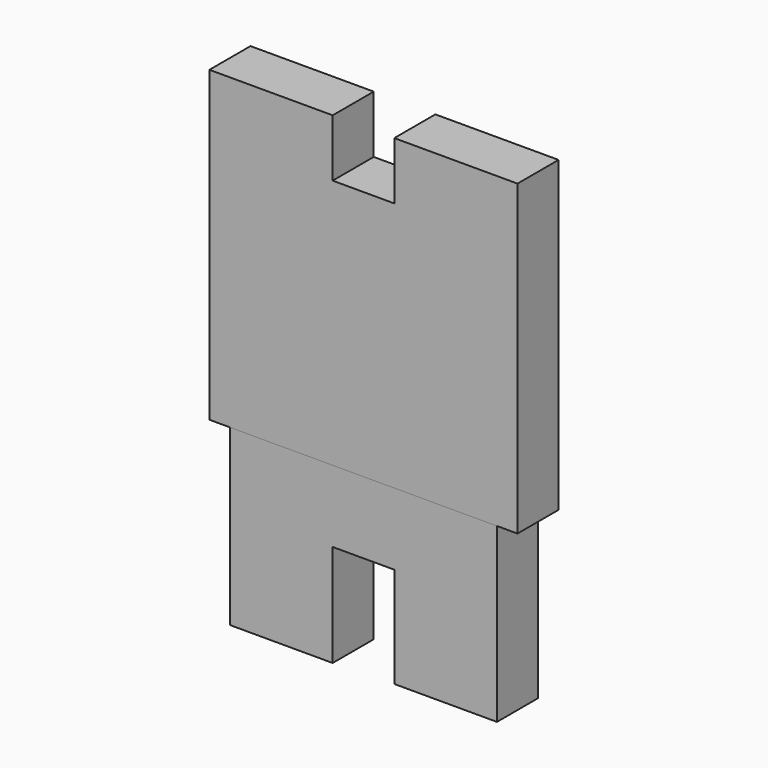
from build123d import *

# Parameters (mm, degrees)
F0_W     = 76.2
F0_H     = 76.2
F1_DEPTH = 12.7
F2_W     = 15.24
F2_H     = 14.224
F3_DEPTH = 25.4
F5_DEPTH = 12.7


with BuildPart() as f1:
    # F0 (on Front) → F1 (new body)
    with BuildSketch(Plane.XZ):
        with Locations((38.1, -38.1)):
            Rectangle(F0_W, F0_H)
    extrude(amount=F1_DEPTH)

    # F2 (on Front) → F3 (cut)
    with BuildSketch(Plane.XZ):
        with Locations((38.1, -7.112)):
            Rectangle(F2_W, F2_H)
    extrude(amount=F3_DEPTH, mode=Mode.SUBTRACT)


with BuildPart() as f5:
    # F4 (on face) → F5 (new body)
    with BuildSketch(Plane(origin=(0, 0, 0), x_dir=(-1, 0, 0), z_dir=(0, 1, 0))):
        Polygon((-5.08, -76.2), (-71.12, -76.2), (-71.12, -118.863896), (-45.72, -118.863896), (-45.72, -93.98), (-30.48, -93.98), (-30.48, -119.254246), (-5.08, -119.254246), align=None)
    extrude(amount=-F5_DEPTH)


solid = Compound([f1.part, f5.part])
